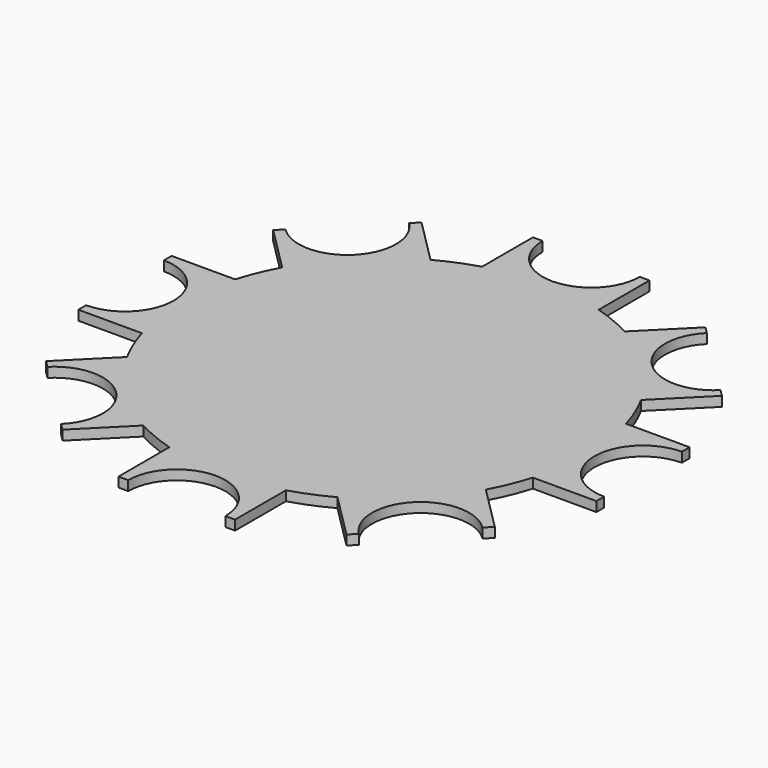
from build123d import *

# Parameters (mm, degrees)
F2_DEPTH = 6.35


with BuildPart() as f2:
    # F1 (on Top) → F2 (new body)
    with BuildSketch(Plane.XY):
        with BuildLine():
            ThreePointArc((-169.315732, 31.75), (-137.565732, 0), (-169.315732, -31.75))
            Line((-169.315732, -31.75), (-169.315732, -38.1))
            Line((-169.315732, -38.1), (-127.791285, -38.1))
            ThreePointArc((-127.791285, -38.1), (-133.35, 0), (-127.791285, 38.1))
            Line((-127.791285, 38.1), (-169.315732, 38.1))
            Line((-169.315732, 38.1), (-169.315732, 31.75))
        make_face()
        with BuildLine():
            ThreePointArc((-63.421316, -117.302853), (-94.292689, -94.292689), (-117.302853, -63.421316))
            Line((-117.302853, -63.421316), (-146.665071, -92.783534))
            Line((-146.665071, -92.783534), (-142.174943, -97.273662))
            ThreePointArc((-142.174943, -97.273662), (-97.273662, -97.273662), (-97.273662, -142.174943))
            Line((-97.273662, -142.174943), (-92.783534, -146.665071))
            Line((-92.783534, -146.665071), (-63.421316, -117.302853))
        make_face()
        with BuildLine():
            ThreePointArc((38.1, -127.791285), (0, -133.35), (-38.1, -127.791285))
            Line((-38.1, -127.791285), (-38.1, -169.315732))
            Line((-38.1, -169.315732), (-31.75, -169.315732))
            ThreePointArc((-31.75, -169.315732), (0, -137.565732), (31.75, -169.315732))
            Line((31.75, -169.315732), (38.1, -169.315732))
            Line((38.1, -169.315732), (38.1, -127.791285))
        make_face()
        with BuildLine():
            ThreePointArc((117.302853, -63.421316), (94.292689, -94.292689), (63.421316, -117.302853))
            Line((63.421316, -117.302853), (92.783534, -146.665071))
            Line((92.783534, -146.665071), (97.273662, -142.174943))
            ThreePointArc((97.273662, -142.174943), (97.273662, -97.273662), (142.174943, -97.273662))
            Line((142.174943, -97.273662), (146.665071, -92.783534))
            Line((146.665071, -92.783534), (117.302853, -63.421316))
        make_face()
        with BuildLine():
            ThreePointArc((133.35, 0), (131.953004, -19.251684), (127.791285, -38.1))
            Line((127.791285, -38.1), (169.315732, -38.1))
            Line((169.315732, -38.1), (169.315732, -31.75))
            ThreePointArc((169.315732, -31.75), (137.565732, 0), (169.315732, 31.75))
            Line((169.315732, 31.75), (169.315732, 38.1))
            Line((169.315732, 38.1), (127.791285, 38.1))
            ThreePointArc((127.791285, 38.1), (131.953004, 19.251684), (133.35, 0))
        make_face()
        with BuildLine():
            Line((92.783534, 146.665071), (63.421316, 117.302853))
            ThreePointArc((63.421316, 117.302853), (94.292689, 94.292689), (117.302853, 63.421316))
            Line((117.302853, 63.421316), (146.665071, 92.783534))
            Line((146.665071, 92.783534), (142.174943, 97.273662))
            ThreePointArc((142.174943, 97.273662), (97.273662, 97.273662), (97.273662, 142.174943))
            Line((97.273662, 142.174943), (92.783534, 146.665071))
        make_face()
        with BuildLine():
            Line((-38.1, 169.315732), (-38.1, 127.791285))
            ThreePointArc((-38.1, 127.791285), (0, 133.35), (38.1, 127.791285))
            Line((38.1, 127.791285), (38.1, 169.315732))
            Line((38.1, 169.315732), (31.75, 169.315732))
            ThreePointArc((31.75, 169.315732), (0, 137.565732), (-31.75, 169.315732))
            Line((-31.75, 169.315732), (-38.1, 169.315732))
        make_face()
        with BuildLine():
            Line((-146.665071, 92.783534), (-117.302853, 63.421316))
            ThreePointArc((-117.302853, 63.421316), (-94.292689, 94.292689), (-63.421316, 117.302853))
            Line((-63.421316, 117.302853), (-92.783534, 146.665071))
            Line((-92.783534, 146.665071), (-97.273662, 142.174943))
            ThreePointArc((-97.273662, 142.174943), (-97.273662, 97.273662), (-142.174943, 97.273662))
            Line((-142.174943, 97.273662), (-146.665071, 92.783534))
        make_face()
        with BuildLine():
            ThreePointArc((-127.791285, 38.1), (-133.35, 0), (-127.791285, -38.1))
            ThreePointArc((-127.791285, -38.1), (-123.199336, -51.030836), (-117.302853, -63.421316))
            ThreePointArc((-117.302853, -63.421316), (-94.292689, -94.292689), (-63.421316, -117.302853))
            ThreePointArc((-63.421316, -117.302853), (-51.030836, -123.199336), (-38.1, -127.791285))
            ThreePointArc((-38.1, -127.791285), (0, -133.35), (38.1, -127.791285))
            ThreePointArc((38.1, -127.791285), (51.030836, -123.199336), (63.421316, -117.302853))
            ThreePointArc((63.421316, -117.302853), (94.292689, -94.292689), (117.302853, -63.421316))
            ThreePointArc((117.302853, -63.421316), (123.199336, -51.030836), (127.791285, -38.1))
            ThreePointArc((127.791285, -38.1), (131.953004, -19.251684), (133.35, 0))
            ThreePointArc((133.35, 0), (131.953004, 19.251684), (127.791285, 38.1))
            ThreePointArc((127.791285, 38.1), (123.199336, 51.030836), (117.302853, 63.421316))
            ThreePointArc((117.302853, 63.421316), (94.292689, 94.292689), (63.421316, 117.302853))
            ThreePointArc((63.421316, 117.302853), (51.030836, 123.199336), (38.1, 127.791285))
            ThreePointArc((38.1, 127.791285), (0, 133.35), (-38.1, 127.791285))
            ThreePointArc((-38.1, 127.791285), (-51.030836, 123.199336), (-63.421316, 117.302853))
            ThreePointArc((-63.421316, 117.302853), (-94.292689, 94.292689), (-117.302853, 63.421316))
            ThreePointArc((-117.302853, 63.421316), (-123.199336, 51.030836), (-127.791285, 38.1))
        make_face()
    extrude(amount=F2_DEPTH)


solid = f2.part
